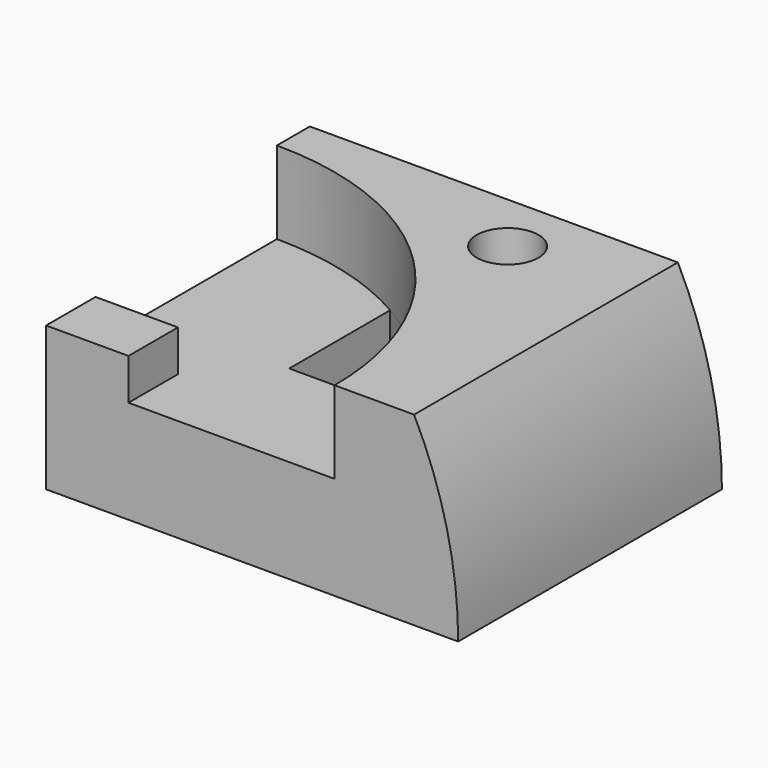
from build123d import *

# Parameters (mm, degrees)
F0_R      = 100
F1_DEPTH  = 80
F3_DEPTH  = 80.001
F4_W      = 150.365841
F4_H      = 83.414628
F5_DEPTH  = 80.001
F6_R      = 7.5
F6_R_2    = 70
F7_DEPTH  = 20
F9_DEPTH  = 25.001
F10_W     = 20
F10_H     = 15
F11_DEPTH = 10


with BuildPart() as f1:
    # F0 (on Front) → F1 (new body)
    with BuildSketch(Plane.XZ):
        Circle(F0_R)
    extrude(amount=-F1_DEPTH)

    # F2 (on face) → F3 (cut, through all)
    with BuildSketch(Plane.XZ):
        with BuildLine():
            Line((0, 0), (0, 100))
            ThreePointArc((0, 100), (-70.710678, -70.710678), (100, 0))
            Line((100, 0), (0, 0))
        make_face()
    extrude(amount=-F3_DEPTH, mode=Mode.SUBTRACT)

    # F4 (on face) → F5 (cut, through all)
    with BuildSketch(Plane.XZ):
        with Locations((51.838493, 86.707314)):
            Rectangle(F4_W, F4_H)
    extrude(amount=-F5_DEPTH, mode=Mode.SUBTRACT)

    # F6 (on face) → F7 (cut)
    with BuildSketch(Plane.XY.offset(45)):
        with Locations((60, 65)):
            Circle(F6_R)
        Circle(F6_R_2)
    extrude(amount=-F7_DEPTH, mode=Mode.SUBTRACT)

    # F8 (on face) → F9 (cut, through all)
    with BuildSketch(Plane.XY.offset(25)):
        with BuildLine():
            ThreePointArc((63.245553, 30), (51.453576, 47.460821), (35, 60.621778))
            Line((35, 60.621778), (35, 30))
            Line((35, 30), (63.245553, 30))
        make_face()
    extrude(amount=-F9_DEPTH, mode=Mode.SUBTRACT)

    # F10 (on face) → F11 (join)
    with BuildSketch(Plane.XY.offset(25)):
        with Locations((10, 7.5)):
            Rectangle(F10_W, F10_H)
    extrude(amount=F11_DEPTH)


solid = f1.part
